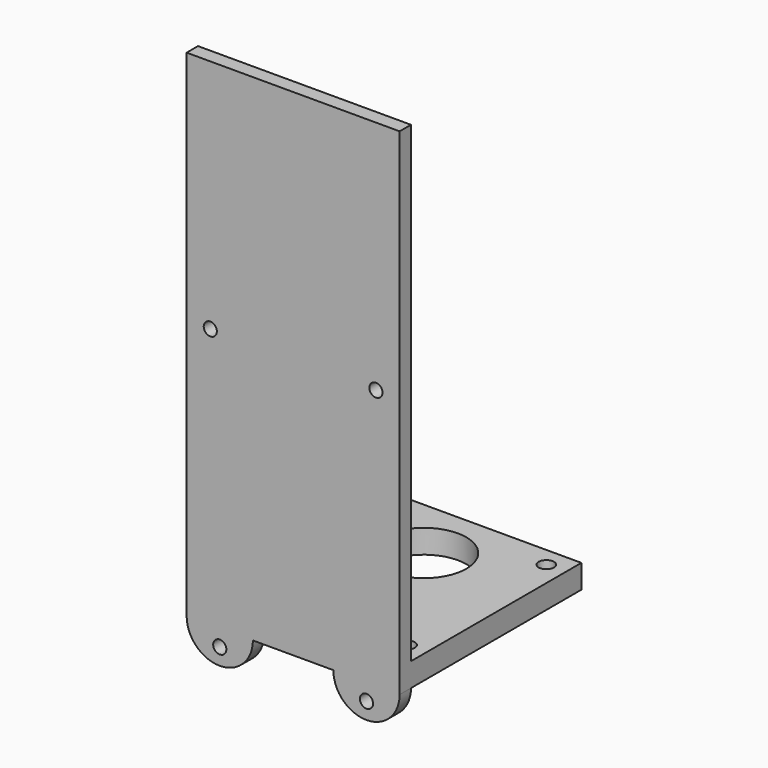
from build123d import *

# Parameters (mm, degrees)
CYLINDER_R        = 2.78
CYLINDER_DEPTH    = 10
CYLINDER001_R     = 2.78
CYLINDER001_DEPTH = 10
EXTRUDE002_DEPTH  = 6
CYLINDER003_R     = 2.78
CYLINDER003_DEPTH = 10
CYLINDER002_R     = 2.78
CYLINDER002_DEPTH = 10
SKETCH001_W       = 90
SKETCH001_H       = 6
EXTRUDE001_DEPTH  = 209.55
SKETCH_R          = 3.25
SKETCH_R_2        = 18
EXTRUDE_DEPTH     = 10


with BuildPart() as cylinder:
    # Cylinder → Cylinder (new body)
    with BuildSketch(Plane(origin=(14, 2, -7), x_dir=(1, 0, 0), z_dir=(0, -1, 0))):
        Circle(CYLINDER_R)
    extrude(amount=CYLINDER_DEPTH)


with BuildPart() as cylinder001:
    # Cylinder001 → Cylinder001 (new body)
    with BuildSketch(Plane(origin=(76, 2, -7), x_dir=(1, 0, 0), z_dir=(0, -1, 0))):
        Circle(CYLINDER001_R)
    extrude(amount=CYLINDER001_DEPTH)


with BuildPart() as cut001:
    # Sketch002 (on Face1 of Extrude001) → Extrude002 (new body)
    with BuildSketch(Plane.XZ.offset(6)):
        with BuildLine():
            ThreePointArc((0, 0), (14, -14), (28, 0))
            Line((0, 0), (28, 0))
        make_face()
        with BuildLine():
            ThreePointArc((62, 0), (76, -14), (90, 0))
            Line((62, 0), (90, 0))
        make_face()
    extrude(amount=-EXTRUDE002_DEPTH)

    # Cut: cut Cylinder001
    add(cylinder001.part, mode=Mode.SUBTRACT)

    # Cut001: cut Cylinder
    add(cylinder.part, mode=Mode.SUBTRACT)


with BuildPart() as cylinder003:
    # Cylinder003 → Cylinder003 (new body)
    with BuildSketch(Plane(origin=(80, 2, 110), x_dir=(1, 0, 0), z_dir=(0, -1, 0))):
        Circle(CYLINDER003_R)
    extrude(amount=CYLINDER003_DEPTH)


with BuildPart() as cylinder002:
    # Cylinder002 → Cylinder002 (new body)
    with BuildSketch(Plane(origin=(10, 2, 110), x_dir=(1, 0, 0), z_dir=(0, -1, 0))):
        Circle(CYLINDER002_R)
    extrude(amount=CYLINDER002_DEPTH)


with BuildPart() as cut003:
    # Sketch001 (on Sketch) → Extrude001 (new body)
    with BuildSketch(Plane.XY):
        with Locations((45, -3)):
            Rectangle(SKETCH001_W, SKETCH001_H)
    extrude(amount=EXTRUDE001_DEPTH)

    # Cut002: cut Cylinder002
    add(cylinder002.part, mode=Mode.SUBTRACT)

    # Cut003: cut Cylinder003
    add(cylinder003.part, mode=Mode.SUBTRACT)


with BuildPart() as fusion:
    # Sketch → Extrude (new body)
    with BuildSketch(Plane.XY):
        Polygon((0, 0), (0, 90), (90, 90), (90, 0), (90, -6), (0, -6), align=None)
        with Locations((8.230447, 81.769553)):
            Circle(SKETCH_R, mode=Mode.SUBTRACT)
        with Locations((81.769553, 81.769553)):
            Circle(SKETCH_R, mode=Mode.SUBTRACT)
        with Locations((81.769553, 8.230447)):
            Circle(SKETCH_R, mode=Mode.SUBTRACT)
        with Locations((8.230447, 8.230447)):
            Circle(SKETCH_R, mode=Mode.SUBTRACT)
        with Locations((45, 63)):
            Circle(SKETCH_R_2, mode=Mode.SUBTRACT)
    extrude(amount=EXTRUDE_DEPTH)

    # Fusion: union Cut001, Cut003
    add(cut001.part)
    add(cut003.part)


solid = fusion.part
